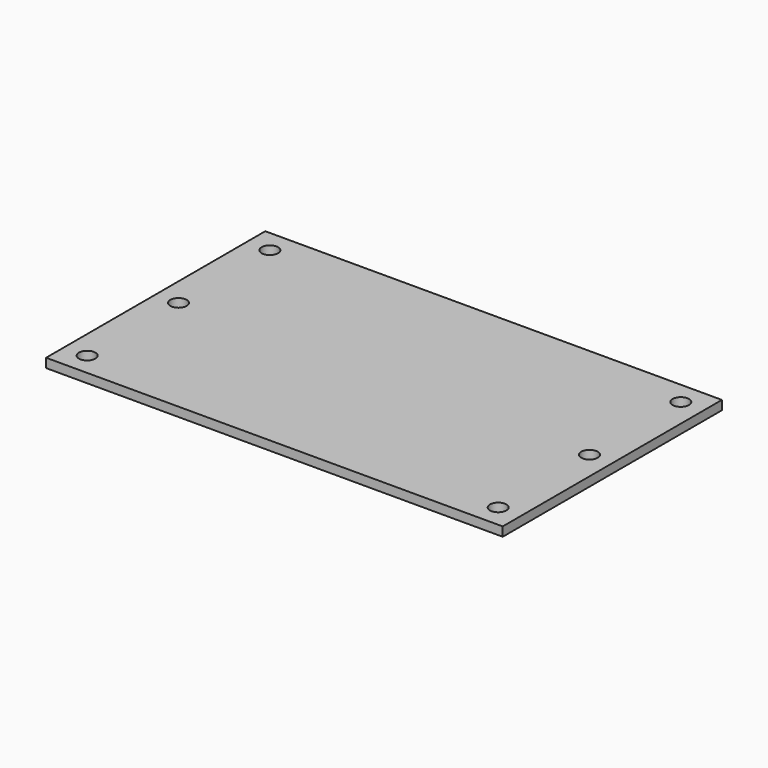
from build123d import *

# Parameters (mm, degrees)
F0_W     = 500
F0_H     = 300
F0_R     = 9
F1_DEPTH = 10


with BuildPart() as f1:
    # F0 (on Top) → F1 (new body)
    with BuildSketch(Plane.XY):
        with Locations((250, 150)):
            Rectangle(F0_W, F0_H)
        with Locations((25, 25)):
            Circle(F0_R, mode=Mode.SUBTRACT)
        with Locations((475, 25)):
            Circle(F0_R, mode=Mode.SUBTRACT)
        with Locations((25, 150)):
            Circle(F0_R, mode=Mode.SUBTRACT)
        with Locations((25, 275)):
            Circle(F0_R, mode=Mode.SUBTRACT)
        with Locations((475, 150)):
            Circle(F0_R, mode=Mode.SUBTRACT)
        with Locations((475, 275)):
            Circle(F0_R, mode=Mode.SUBTRACT)
    extrude(amount=F1_DEPTH)


solid = f1.part
